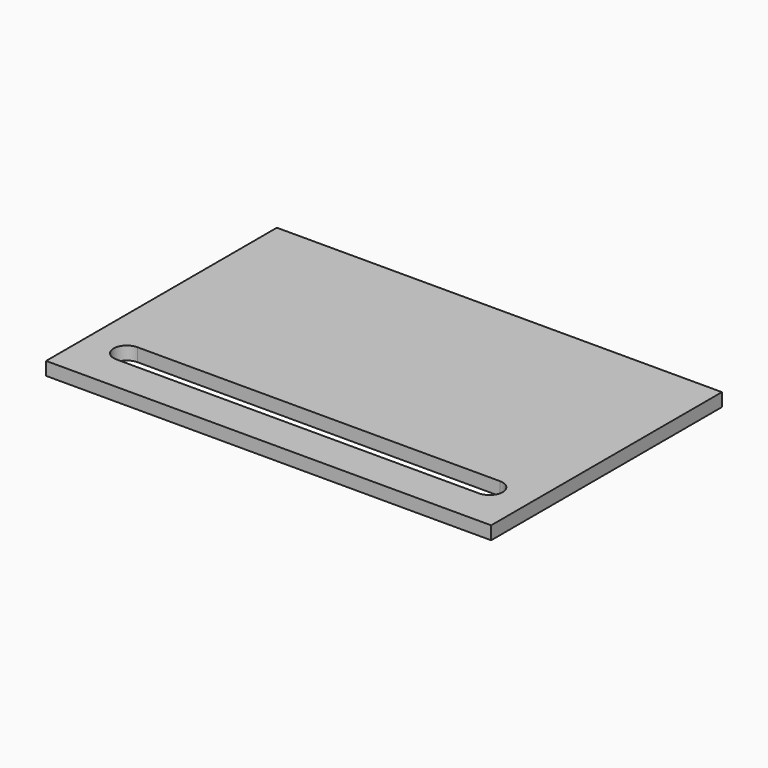
from build123d import *

# Parameters (mm, degrees)
F0_W     = 135
F0_H     = 87.5
F1_DEPTH = 4
F3_DEPTH = 25


with BuildPart() as f1:
    # F0 (on Top) → F1 (new body)
    with BuildSketch(Plane.XY):
        Rectangle(F0_W, F0_H)
    extrude(amount=F1_DEPTH)

    # F2 (on face) → F3 (cut)
    with BuildSketch(Plane.XY.offset(4)):
        with BuildLine():
            Line((-55, -32.749999), (55, -32.749999))
            ThreePointArc((55, -32.749999), (58.999999, -28.75), (55, -24.750001))
            Line((55, -24.750001), (-55, -24.750001))
            ThreePointArc((-55, -24.750001), (-58.999999, -28.75), (-55, -32.749999))
        make_face()
    extrude(amount=-F3_DEPTH, mode=Mode.SUBTRACT)


solid = f1.part
